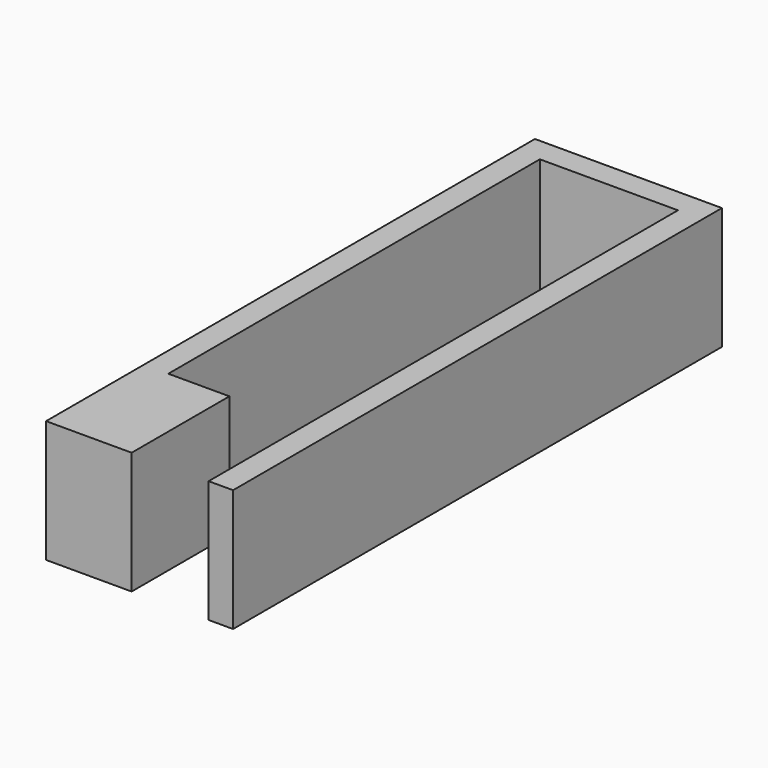
from build123d import *

# Parameters (mm, degrees)
F0_W     = 6.35
F0_H     = 12.7
F0_W_2   = 14.351
F0_H_2   = 2.54
F1_DEPTH = 12.7


with BuildPart() as f1:
    # F0 (on Top) → F1 (new body)
    with BuildSketch(Plane.XY):
        with Locations((-12.446, -25.4)):
            Rectangle(F0_W, F0_H)
        Polygon((-15.621, -19.05), (-15.621, 29.21), (-15.621, 31.75), (-18.161, 31.75), (-18.161, -31.75), (-15.621, -31.75), align=None)
        with Locations((-8.4455, 30.48)):
            Rectangle(F0_W_2, F0_H_2)
        Polygon((-1.27, -31.75), (1.27, -31.75), (1.27, 31.75), (-1.27, 31.75), (-1.27, 29.21), align=None)
    extrude(amount=F1_DEPTH)


solid = f1.part
